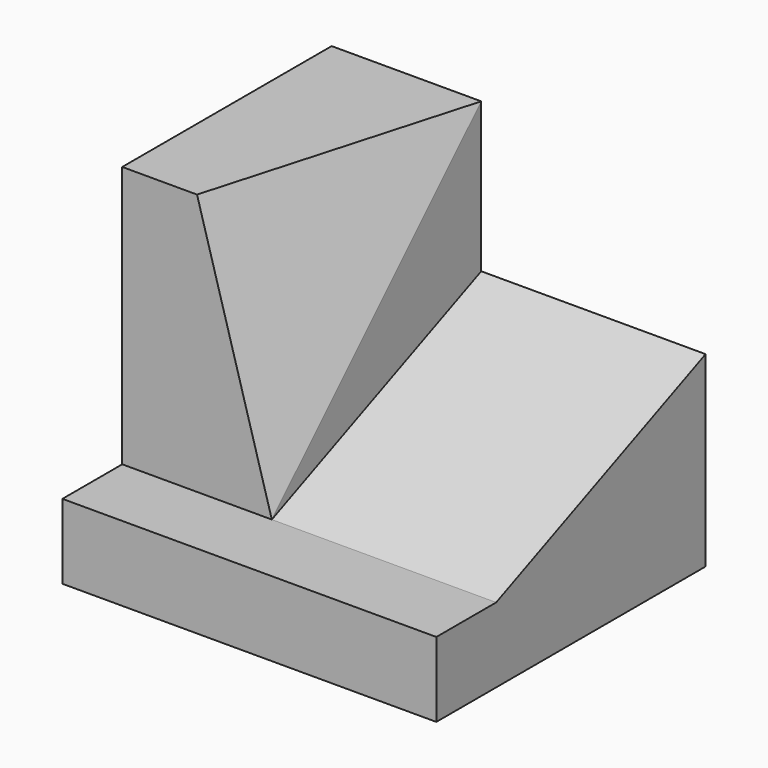
from build123d import *

# Parameters (mm, degrees)
F1_DEPTH = 10
F2_DEPTH = 4
F6_DEPTH = 7.9481941424


with BuildPart() as f1:
    # F0 (on Right) → F1 (new body)
    with BuildSketch(Plane.YZ):
        Polygon((0, 2), (0, 0), (9, 0), (9, 2), (2, 2), align=None)
        Polygon((2, 2), (9, 2), (9, 5), align=None)
    extrude(amount=F1_DEPTH)

    # F0 (on Right) → F2 (join)
    with BuildSketch(Plane.YZ):
        Polygon((2, 9), (2, 2), (9, 5), (9, 9), align=None)
    extrude(amount=F2_DEPTH)

    # F5 (on 3pt) → F6 (cut, through all)
    with BuildSketch(Plane(origin=(3.4385964912, -0.9824561404, 0.9824561404), x_dir=(-0.2547139161, -0.9642741111, -0.0727754046), z_dir=(-0.9271726499, 0.2649064714, -0.2649064714))):
        Polygon((-3.0929546961, 0.8241633837), (-3.0929546961, 8.104273273), (-10.3523013063, 7.5548310172), align=None)
    extrude(amount=-F6_DEPTH, mode=Mode.SUBTRACT)


solid = f1.part
